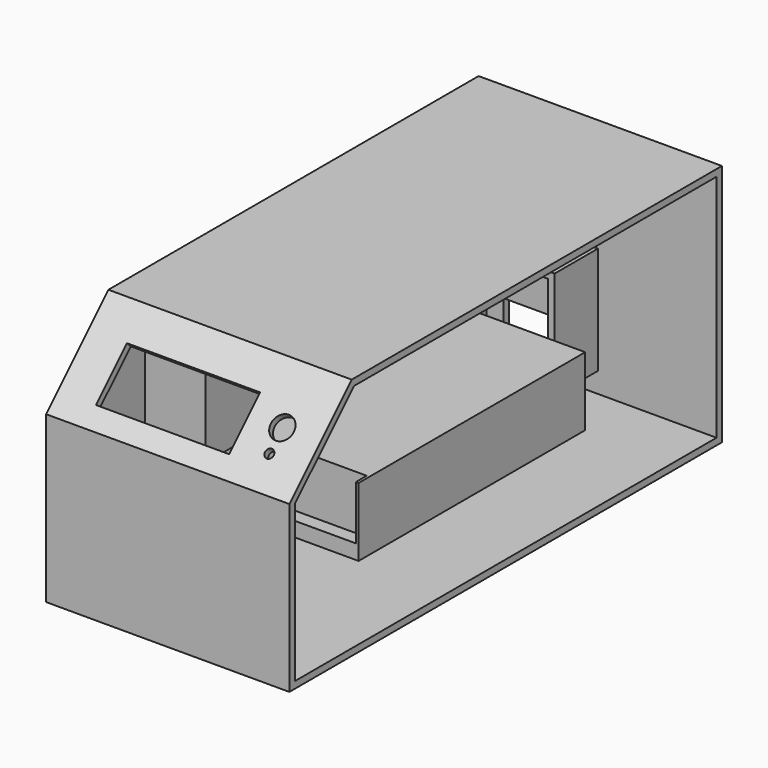
from build123d import *

# Parameters (mm, degrees)
F0_W          = 180
F0_H          = 180
F1_DEPTH      = 400
F3_DEPTH      = 90.001
F3_DEPTH_BACK = 90.001
F4_T          = -5
F5_W          = 98.5
F5_H          = 40.5
F5_R          = 8.5
F5_R_2        = 3.25
F6_DEPTH      = 5
F7_W          = 60
F7_H          = 60
F8_DEPTH      = 12
F9_W          = 47.25
F9_H          = 27.15
F9_R          = 6.125
F10_DEPTH     = 5.001
F12_DEPTH     = 40
F13_W         = 109.855
F13_H         = 50.8
F14_DEPTH     = 209.55
F15_W         = 107.855
F15_H         = 10
F16_DEPTH     = 40
F17_W         = 60
F17_H         = 50
F18_DEPTH     = 37.5
F19_W         = 30
F19_H         = 67.5
F20_DEPTH     = 20
F21_W         = 110
F21_H         = 90
F22_DEPTH     = 45


with BuildPart() as f1:
    # F0 (on Front) → F1 (new body)
    with BuildSketch(Plane.XZ):
        Rectangle(F0_W, F0_H)
    extrude(amount=-F1_DEPTH)

    # F2 (on Right) → F3 (cut, two sides)
    with BuildSketch(Plane.YZ) as f3_sk:
        Polygon((57.6292026667, 90), (0, 90), (0, 32.3707973333), align=None)
    extrude(amount=-F3_DEPTH, mode=Mode.SUBTRACT)
    extrude(f3_sk.sketch, amount=F3_DEPTH_BACK, mode=Mode.SUBTRACT)

    # F4
    f4_openings = [f1.faces().sort_by_distance(p)[0] for p in [
        (90, 204.268068, -1.671206),
    ]]
    offset(amount=F4_T, openings=f4_openings)

    # F5 (on face) → F6 (cut, through all)
    with BuildSketch(Plane(origin=(0, -16.1853986666, 16.1853986666), x_dir=(1, 0, 0), z_dir=(0, -0.7071067812, 0.7071067812))):
        with Locations((-12.5, 58.3896103068)):
            Rectangle(F5_W, F5_H)
        with Locations((61.75, 63.6396103068)):
            Circle(F5_R)
        with Locations((61.75, 46.6396103068)):
            Circle(F5_R_2)
    extrude(amount=-F6_DEPTH, mode=Mode.SUBTRACT)

    # F9 (on face) → F10 (cut, through all)
    with BuildSketch(Plane.XZ.offset(-395)):
        with Locations((-43.875, -58.925)):
            Rectangle(F9_W, F9_H)
        with Locations((-57.5, -15.35)):
            Circle(F9_R)
        with Locations((-27.5, -15.35)):
            Circle(F9_R)
    extrude(amount=-F10_DEPTH, mode=Mode.SUBTRACT)

    # F11 (on face) → F12 (join)
    with BuildSketch(Plane.XZ.offset(-395)):
        Polygon((-80, -85), (-80, 4.65), (-2.75, 4.65), (-2.75, -70), (2.25, -70), (2.25, 9.65), (-85, 9.65), (-85, -85), align=None)
    extrude(amount=F12_DEPTH)


with BuildPart() as f8:
    # F7 (on face) → F8 (new body)
    with BuildSketch(Plane(origin=(0, 5, 0), x_dir=(-1, 0, 0), z_dir=(0, 1, 0))):
        with Locations((-30.5, -28.4744981494)):
            Rectangle(F7_W, F7_H)
    extrude(amount=F8_DEPTH)


with BuildPart() as f8b:
    # F7 (on face) → F8, piece 2 (new body)
    with BuildSketch(Plane(origin=(0, 5, 0), x_dir=(-1, 0, 0), z_dir=(0, 1, 0))):
        with Locations((30.5, -28.4744981494)):
            Rectangle(F7_W, F7_H)
    extrude(amount=F8_DEPTH)


with BuildPart() as f14:
    # F13 (on face) → F14 (new body)
    with BuildSketch(Plane.XZ.offset(-355)):
        with Locations((-30.0725, -59.6)):
            Rectangle(F13_W, F13_H)
    extrude(amount=F14_DEPTH)

    # F15 (on face) → F16 (cut)
    with BuildSketch(Plane.XY.offset(-34.2)):
        with Locations((-31.0725, 150.45)):
            Rectangle(F15_W, F15_H)
    extrude(amount=-F16_DEPTH, mode=Mode.SUBTRACT)


with BuildPart() as f18:
    # F17 (on face) → F18 (new body)
    with BuildSketch(Plane.YZ.offset(-85)):
        with Locations((352.5, 47.5)):
            Rectangle(F17_W, F17_H)
    extrude(amount=F18_DEPTH)


with BuildPart() as f20:
    # F19 (on face) → F20 (new body)
    with BuildSketch(Plane.YZ.offset(-85)):
        with Locations((260, 38.75)):
            Rectangle(F19_W, F19_H)
    extrude(amount=F20_DEPTH)


with BuildPart() as f22:
    # F21 (on face) → F22 (new body)
    with BuildSketch(Plane.YZ.offset(-85)):
        with Locations((140, 27.5)):
            Rectangle(F21_W, F21_H)
    extrude(amount=F22_DEPTH)


solid = Compound([f1.part, f8.part, f8b.part, f14.part, f18.part, f20.part, f22.part])
